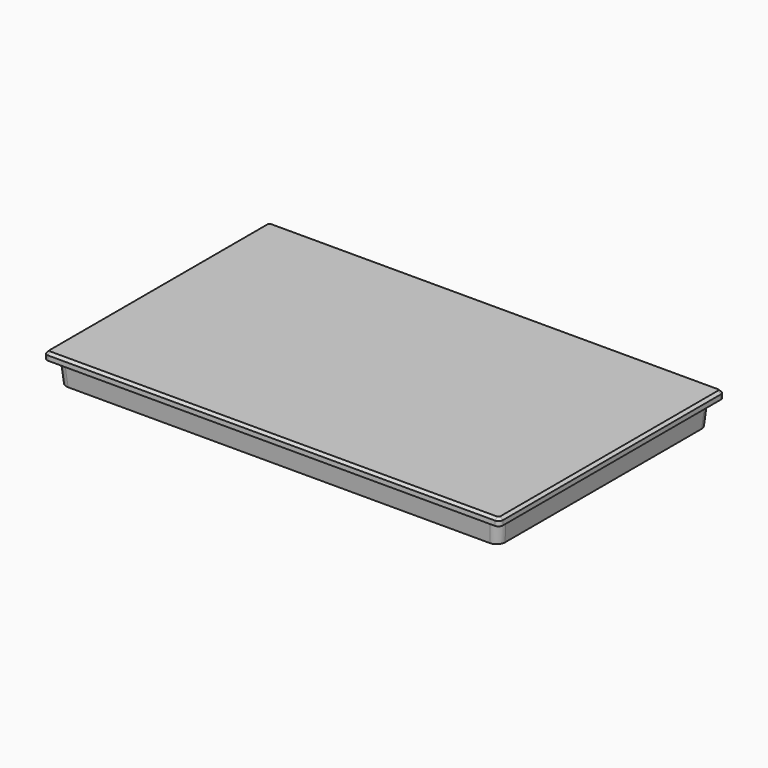
from build123d import *

# Parameters (mm, degrees)
F0_W     = 535
F0_H     = 330
F0_W_2   = 520
F0_H_2   = 313
F1_DEPTH = 8.5
F2_DEPTH = 27
F2_TAPER = 5
F3_W     = 244
F3_H     = 133
F4_DEPTH = 48.5
F5_R     = 5
F6_R     = 10
F7_SIZE  = 3


with BuildPart() as f1:
    # F0 (on Top) → F1 (new body)
    with BuildSketch(Plane.XY):
        Rectangle(F0_W, F0_H)
        Rectangle(F0_W_2, F0_H_2, mode=Mode.SUBTRACT)
        Rectangle(F0_W_2, F0_H_2)
    extrude(amount=F1_DEPTH)

    # F0 (on Top) → F2 (join)
    with BuildSketch(Plane.XY):
        Rectangle(F0_W_2, F0_H_2)
    extrude(amount=-F2_DEPTH, taper=F2_TAPER)

    # F3 (on face) → F4 (join)
    with BuildSketch(Plane(origin=(0, 0, -27), x_dir=(1, 0, 0), z_dir=(0, 0, -1))):
        with Locations((0, -80.3621939152)):
            Rectangle(F3_W, F3_H)
    extrude(amount=F4_DEPTH)

    # F5
    f5_edges = [f1.edges().sort_by_distance(p)[0] for p in [
        (267.5, 165, 4.25),
        (-267.5, 165, 4.25),
        (-267.5, -165, 4.25),
        (267.5, -165, 4.25),
    ]]
    fillet(f5_edges, radius=F5_R)

    # F6
    f6_edges = [f1.edges().sort_by_distance(p)[0] for p in [
        (258.818903, -155.318903, -13.5),
        (258.818903, 155.318903, -13.5),
        (-258.818903, 155.318903, -13.5),
        (-258.818903, -155.318903, -13.5),
    ]]
    fillet(f6_edges, radius=F6_R)

    # F7
    f7_edges = [f1.edges().sort_by_distance(p)[0] for p in [
        (0, -165, 8.5),
    ]]
    chamfer(f7_edges, length=F7_SIZE)


solid = f1.part
